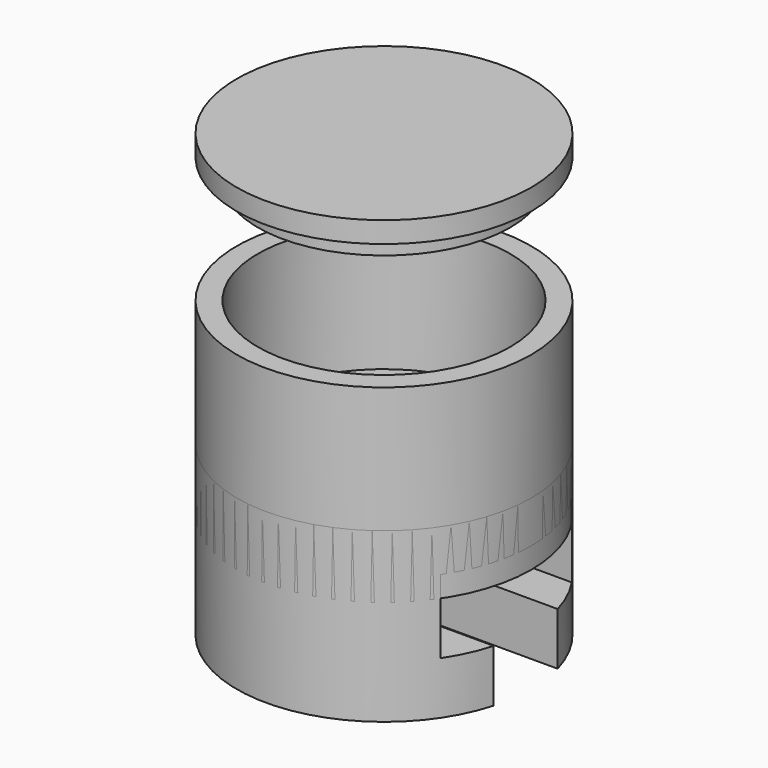
from build123d import *

# Parameters (mm, degrees)
F0_R           = 7
F1_DEPTH       = 9
F2_T           = -1
F4_R           = 6
F5_DEPTH       = 1
F4_R_2         = 7
F5_FACE_R      = 6
F6_DEPTH       = 1
F7_DEPTH       = 5
F7_DEPTH_BACK  = 3
F10_DEPTH      = 25
F10_DEPTH_BACK = 25


with BuildPart() as f1:
    # F0 (on Top) → F1 (new body)
    with BuildSketch(Plane.XY):
        Circle(F0_R)
    extrude(amount=F1_DEPTH)

    # F2
    f2_openings = [f1.faces().sort_by_distance(p)[0] for p in [
        (0, 0, 9),
    ]]
    offset(amount=F2_T, openings=f2_openings)


with BuildPart() as f5:
    # F4 (on offset) → F5 (new body)
    with BuildSketch(Plane.XY.offset(15)):
        Circle(F4_R)
    extrude(amount=-F5_DEPTH)

    # F4 (on offset) + F5_face (on face) → F6 (join)
    with BuildSketch(Plane.XY.offset(15)):
        Circle(F4_R_2)
        Circle(F4_R, mode=Mode.SUBTRACT)
    with BuildSketch(Plane.XY.offset(15)):
        Circle(F5_FACE_R)
    extrude(amount=F6_DEPTH)


with BuildPart() as f7:
    # F7 (new, two sides): a face of the model
    f7_faces = [f1.part.faces().sort_by_distance(p)[0] for p in [
        (0, 0, 0),
    ]]
    extrude(f7_faces, amount=F7_DEPTH)
    extrude(f7_faces, amount=-F7_DEPTH_BACK)

    # F9 (on Right) → F10 (cut, two sides)
    with BuildSketch(Plane.YZ) as f10_sk:
        Polygon((3.9, 1), (-3.9, 1), (-3.9, -1.5), (-3.9, -2.5), (-1.9, -2.5), (-1.9, -5), (0, -5), (1.9, -5), (1.9, -2.5), (3.9, -2.5), (3.9, -1.5), align=None)
    extrude(amount=F10_DEPTH, mode=Mode.SUBTRACT)
    extrude(f10_sk.sketch, amount=-F10_DEPTH_BACK, mode=Mode.SUBTRACT)


solid = Compound([f1.part, f5.part, f7.part])
